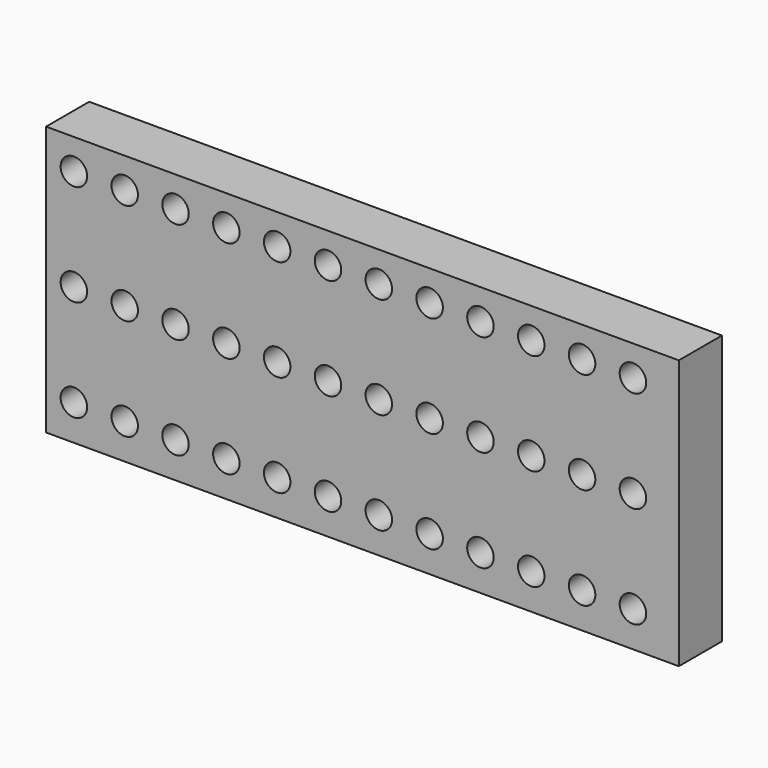
from build123d import *

# Parameters (mm, degrees)
F0_W     = 158.120841
F0_H     = 67.29681
F0_R     = 3.310694
F1_DEPTH = 13.462


with BuildPart() as f1:
    # F0 (on Front) → F1 (new body)
    with BuildSketch(Plane.XZ):
        with Locations((79.06042, 33.648405)):
            Rectangle(F0_W, F0_H)
        with Locations((6.946445, 8.891325)):
            Circle(F0_R, mode=Mode.SUBTRACT)
        with Locations((19.646445, 8.891325)):
            Circle(F0_R, mode=Mode.SUBTRACT)
        with Locations((32.346445, 8.891325)):
            Circle(F0_R, mode=Mode.SUBTRACT)
        with Locations((45.046445, 8.891325)):
            Circle(F0_R, mode=Mode.SUBTRACT)
        with Locations((57.746445, 8.891325)):
            Circle(F0_R, mode=Mode.SUBTRACT)
        with Locations((70.446445, 8.891325)):
            Circle(F0_R, mode=Mode.SUBTRACT)
        with Locations((83.146445, 8.891325)):
            Circle(F0_R, mode=Mode.SUBTRACT)
        with Locations((95.846445, 8.891325)):
            Circle(F0_R, mode=Mode.SUBTRACT)
        with Locations((108.546445, 8.891325)):
            Circle(F0_R, mode=Mode.SUBTRACT)
        with Locations((121.246445, 8.891325)):
            Circle(F0_R, mode=Mode.SUBTRACT)
        with Locations((133.946445, 8.891325)):
            Circle(F0_R, mode=Mode.SUBTRACT)
        with Locations((146.646445, 8.891325)):
            Circle(F0_R, mode=Mode.SUBTRACT)
        with Locations((6.946445, 34.291325)):
            Circle(F0_R, mode=Mode.SUBTRACT)
        with Locations((19.646445, 34.291325)):
            Circle(F0_R, mode=Mode.SUBTRACT)
        with Locations((32.346445, 34.291325)):
            Circle(F0_R, mode=Mode.SUBTRACT)
        with Locations((45.046445, 34.291325)):
            Circle(F0_R, mode=Mode.SUBTRACT)
        with Locations((57.746445, 34.291325)):
            Circle(F0_R, mode=Mode.SUBTRACT)
        with Locations((70.446445, 34.291325)):
            Circle(F0_R, mode=Mode.SUBTRACT)
        with Locations((6.946445, 59.691325)):
            Circle(F0_R, mode=Mode.SUBTRACT)
        with Locations((19.646445, 59.691325)):
            Circle(F0_R, mode=Mode.SUBTRACT)
        with Locations((32.346445, 59.691325)):
            Circle(F0_R, mode=Mode.SUBTRACT)
        with Locations((45.046445, 59.691325)):
            Circle(F0_R, mode=Mode.SUBTRACT)
        with Locations((57.746445, 59.691325)):
            Circle(F0_R, mode=Mode.SUBTRACT)
        with Locations((70.446445, 59.691325)):
            Circle(F0_R, mode=Mode.SUBTRACT)
        with Locations((83.146445, 34.291325)):
            Circle(F0_R, mode=Mode.SUBTRACT)
        with Locations((95.846445, 34.291325)):
            Circle(F0_R, mode=Mode.SUBTRACT)
        with Locations((108.546445, 34.291325)):
            Circle(F0_R, mode=Mode.SUBTRACT)
        with Locations((121.246445, 34.291325)):
            Circle(F0_R, mode=Mode.SUBTRACT)
        with Locations((133.946445, 34.291325)):
            Circle(F0_R, mode=Mode.SUBTRACT)
        with Locations((146.646445, 34.291325)):
            Circle(F0_R, mode=Mode.SUBTRACT)
        with Locations((83.146445, 59.691325)):
            Circle(F0_R, mode=Mode.SUBTRACT)
        with Locations((95.846445, 59.691325)):
            Circle(F0_R, mode=Mode.SUBTRACT)
        with Locations((108.546445, 59.691325)):
            Circle(F0_R, mode=Mode.SUBTRACT)
        with Locations((121.246445, 59.691325)):
            Circle(F0_R, mode=Mode.SUBTRACT)
        with Locations((133.946445, 59.691325)):
            Circle(F0_R, mode=Mode.SUBTRACT)
        with Locations((146.646445, 59.691325)):
            Circle(F0_R, mode=Mode.SUBTRACT)
    extrude(amount=F1_DEPTH)


solid = f1.part
